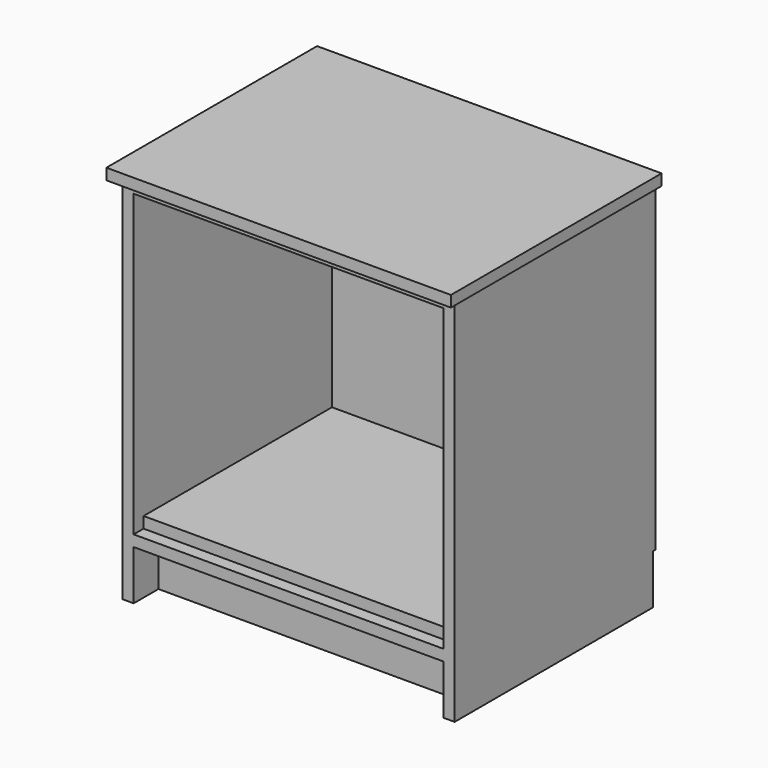
from build123d import *

# Parameters (mm, degrees)
F1_W      = 536
F1_H      = 400
F2_DEPTH  = 18
F3_W      = 18
F3_H      = 400
F5_DEPTH  = 484
F6_W      = 518
F6_H      = 400
F6_W_2    = 18
F7_DEPTH  = 18
F8_W      = 500
F8_H      = 380
F9_DEPTH  = 18
F11_DEPTH = 80
F12_W     = 500
F12_H     = 484
F14_DEPTH = 5
F15_W     = 556
F15_H     = 425
F16_DEPTH = 18


with BuildPart() as f2:
    # F1 (on Top) → F2 (new body)
    with BuildSketch(Plane.XY):
        with Locations((268, 200)):
            Rectangle(F1_W, F1_H)
    extrude(amount=F2_DEPTH)

    # F3 (on face) → F5 (join)
    with BuildSketch(Plane.XY.offset(18)):
        with Locations((9, 200)):
            Rectangle(F3_W, F3_H)
        with Locations((527, 200)):
            Rectangle(F3_W, F3_H)
    extrude(amount=F5_DEPTH)

    # F6 (on face) → F7 (join)
    with BuildSketch(Plane.XY.offset(502)):
        with Locations((277, 200)):
            Rectangle(F6_W, F6_H)
        with Locations((9, 200)):
            Rectangle(F6_W_2, F6_H)
    extrude(amount=F7_DEPTH)

    # F10 (on face) → F11 (join)
    with BuildSketch(Plane(origin=(0, 0, 0), x_dir=(1, 0, 0), z_dir=(0, 0, -1))):
        Polygon((0, 0), (0, -400), (18, -400), (18, -68), (518, -68), (518, -400), (536, -400), (536, 0), (518, 0), (518, -50), (18, -50), (18, 0), align=None)
    extrude(amount=F11_DEPTH)



with BuildPart() as f9:
    # F8 (on face) → F9 (new body)
    with BuildSketch(Plane.XY.offset(18)):
        with Locations((268, 210)):
            Rectangle(F8_W, F8_H)
    extrude(amount=F9_DEPTH)


with BuildPart() as f14:
    # F12 (on face) → F14 (new body)
    with BuildSketch(Plane(origin=(0, 400, 0), x_dir=(-1, 0, 0), z_dir=(0, 1, 0))):
        Polygon((0, 520), (-536, 520), (-536, 0), (-518, 0), (-18, 0), (0, 0), align=None)
        with Locations((-268, 260)):
            Rectangle(F12_W, F12_H, mode=Mode.SUBTRACT)
        with Locations((-268, 260)):
            Rectangle(F12_W, F12_H)
    extrude(amount=F14_DEPTH)


with BuildPart() as f2_1:
    add(f2.part)

    add(f14.part)  # F16 merges F14
    # F15 (on face) → F16 (join)
    with BuildSketch(Plane.XY.offset(520)):
        with Locations((268, 192.5)):
            Rectangle(F15_W, F15_H)
    extrude(amount=F16_DEPTH)


solid = Compound([f9.part, f2_1.part])
